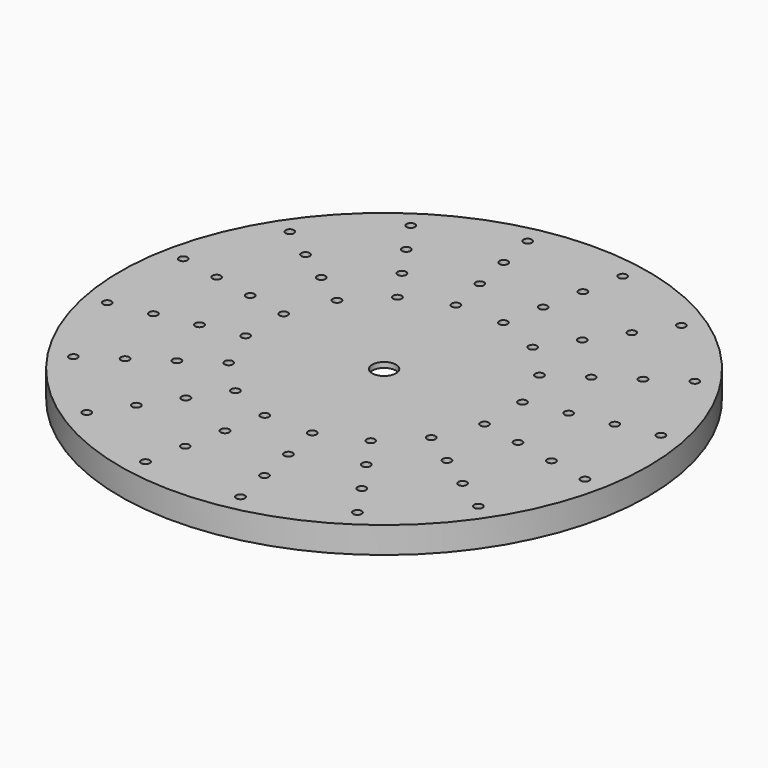
from build123d import *

# Parameters (mm, degrees)
SKETCH085_R     = 100
SKETCH085_R_2   = 1.6
PAD029_DEPTH    = 10
SKETCH086_R     = 32.5
POCKET051_DEPTH = 8
SKETCH087_R     = 4.5
POCKET052_DEPTH = 5
CHAMFER009_SIZE = 1


with BuildPart() as part:
    # Sketch085 → Pad029 (new body)
    with BuildSketch(Plane.XY):
        Circle(SKETCH085_R)
        with Locations((-18, 90.4921108583)):
            Circle(SKETCH085_R_2, mode=Mode.SUBTRACT)
        with Locations((18, 90.4921108583)):
            Circle(SKETCH085_R_2, mode=Mode.SUBTRACT)
        with Locations((51.2596631704, 76.7155072931)):
            Circle(SKETCH085_R_2, mode=Mode.SUBTRACT)
        with Locations((76.7155072931, 51.2596631704)):
            Circle(SKETCH085_R_2, mode=Mode.SUBTRACT)
        with Locations((90.4921108583, 18)):
            Circle(SKETCH085_R_2, mode=Mode.SUBTRACT)
        with Locations((90.4921108583, -18)):
            Circle(SKETCH085_R_2, mode=Mode.SUBTRACT)
        with Locations((76.7155072931, -51.2596631704)):
            Circle(SKETCH085_R_2, mode=Mode.SUBTRACT)
        with Locations((51.2596631704, -76.7155072931)):
            Circle(SKETCH085_R_2, mode=Mode.SUBTRACT)
        with Locations((18, -90.4921108583)):
            Circle(SKETCH085_R_2, mode=Mode.SUBTRACT)
        with Locations((-18, -90.4921108583)):
            Circle(SKETCH085_R_2, mode=Mode.SUBTRACT)
        with Locations((-51.2596631704, -76.7155072931)):
            Circle(SKETCH085_R_2, mode=Mode.SUBTRACT)
        with Locations((-76.7155072931, -51.2596631704)):
            Circle(SKETCH085_R_2, mode=Mode.SUBTRACT)
        with Locations((-90.4921108583, -18)):
            Circle(SKETCH085_R_2, mode=Mode.SUBTRACT)
        with Locations((-90.4921108583, 18)):
            Circle(SKETCH085_R_2, mode=Mode.SUBTRACT)
        with Locations((-76.7155072931, 51.2596631704)):
            Circle(SKETCH085_R_2, mode=Mode.SUBTRACT)
        with Locations((-51.2596631704, 76.7155072931)):
            Circle(SKETCH085_R_2, mode=Mode.SUBTRACT)
        with Locations((-75.4100923819, 15)):
            Circle(SKETCH085_R_2, mode=Mode.SUBTRACT)
        with Locations((-75.4100923819, -15)):
            Circle(SKETCH085_R_2, mode=Mode.SUBTRACT)
        with Locations((-63.9295894109, -42.7163859753)):
            Circle(SKETCH085_R_2, mode=Mode.SUBTRACT)
        with Locations((-42.7163859753, -63.9295894109)):
            Circle(SKETCH085_R_2, mode=Mode.SUBTRACT)
        with Locations((-15, -75.4100923819)):
            Circle(SKETCH085_R_2, mode=Mode.SUBTRACT)
        with Locations((15, -75.4100923819)):
            Circle(SKETCH085_R_2, mode=Mode.SUBTRACT)
        with Locations((42.7163859753, -63.9295894109)):
            Circle(SKETCH085_R_2, mode=Mode.SUBTRACT)
        with Locations((63.9295894109, -42.7163859753)):
            Circle(SKETCH085_R_2, mode=Mode.SUBTRACT)
        with Locations((75.4100923819, -15)):
            Circle(SKETCH085_R_2, mode=Mode.SUBTRACT)
        with Locations((75.4100923819, 15)):
            Circle(SKETCH085_R_2, mode=Mode.SUBTRACT)
        with Locations((63.9295894109, 42.7163859753)):
            Circle(SKETCH085_R_2, mode=Mode.SUBTRACT)
        with Locations((42.7163859753, 63.9295894109)):
            Circle(SKETCH085_R_2, mode=Mode.SUBTRACT)
        with Locations((15, 75.4100923819)):
            Circle(SKETCH085_R_2, mode=Mode.SUBTRACT)
        with Locations((-15, 75.4100923819)):
            Circle(SKETCH085_R_2, mode=Mode.SUBTRACT)
        with Locations((-42.7163859753, 63.9295894109)):
            Circle(SKETCH085_R_2, mode=Mode.SUBTRACT)
        with Locations((-63.9295894109, 42.7163859753)):
            Circle(SKETCH085_R_2, mode=Mode.SUBTRACT)
        with Locations((-34.1731089215, 51.1436717401)):
            Circle(SKETCH085_R_2, mode=Mode.SUBTRACT)
        with Locations((-12.0000000496, 60.3280741548)):
            Circle(SKETCH085_R_2, mode=Mode.SUBTRACT)
        with Locations((12.0000000496, 60.3280741548)):
            Circle(SKETCH085_R_2, mode=Mode.SUBTRACT)
        with Locations((34.1731089215, 51.1436717401)):
            Circle(SKETCH085_R_2, mode=Mode.SUBTRACT)
        with Locations((51.1436717401, 34.1731089215)):
            Circle(SKETCH085_R_2, mode=Mode.SUBTRACT)
        with Locations((60.3280741548, 12.0000000496)):
            Circle(SKETCH085_R_2, mode=Mode.SUBTRACT)
        with Locations((60.3280741548, -12.0000000496)):
            Circle(SKETCH085_R_2, mode=Mode.SUBTRACT)
        with Locations((51.1436717401, -34.1731089215)):
            Circle(SKETCH085_R_2, mode=Mode.SUBTRACT)
        with Locations((34.1731089215, -51.1436717401)):
            Circle(SKETCH085_R_2, mode=Mode.SUBTRACT)
        with Locations((12.0000000496, -60.3280741548)):
            Circle(SKETCH085_R_2, mode=Mode.SUBTRACT)
        with Locations((-12.0000000496, -60.3280741548)):
            Circle(SKETCH085_R_2, mode=Mode.SUBTRACT)
        with Locations((-34.1731089215, -51.1436717401)):
            Circle(SKETCH085_R_2, mode=Mode.SUBTRACT)
        with Locations((-51.1436717401, -34.1731089215)):
            Circle(SKETCH085_R_2, mode=Mode.SUBTRACT)
        with Locations((-60.3280741548, -12.0000000496)):
            Circle(SKETCH085_R_2, mode=Mode.SUBTRACT)
        with Locations((-60.3280741548, 12.0000000496)):
            Circle(SKETCH085_R_2, mode=Mode.SUBTRACT)
        with Locations((-51.1436717401, 34.1731089215)):
            Circle(SKETCH085_R_2, mode=Mode.SUBTRACT)
        with Locations((-25.6298315852, 38.3577536466)):
            Circle(SKETCH085_R_2, mode=Mode.SUBTRACT)
        with Locations((-9, 45.2460554291)):
            Circle(SKETCH085_R_2, mode=Mode.SUBTRACT)
        with Locations((9, 45.2460554291)):
            Circle(SKETCH085_R_2, mode=Mode.SUBTRACT)
        with Locations((25.6298315852, 38.3577536466)):
            Circle(SKETCH085_R_2, mode=Mode.SUBTRACT)
        with Locations((38.3577536466, 25.6298315852)):
            Circle(SKETCH085_R_2, mode=Mode.SUBTRACT)
        with Locations((45.2460554291, 9)):
            Circle(SKETCH085_R_2, mode=Mode.SUBTRACT)
        with Locations((45.2460554291, -9)):
            Circle(SKETCH085_R_2, mode=Mode.SUBTRACT)
        with Locations((38.3577536466, -25.6298315852)):
            Circle(SKETCH085_R_2, mode=Mode.SUBTRACT)
        with Locations((25.6298315852, -38.3577536466)):
            Circle(SKETCH085_R_2, mode=Mode.SUBTRACT)
        with Locations((9, -45.2460554291)):
            Circle(SKETCH085_R_2, mode=Mode.SUBTRACT)
        with Locations((-9, -45.2460554291)):
            Circle(SKETCH085_R_2, mode=Mode.SUBTRACT)
        with Locations((-25.6298315852, -38.3577536466)):
            Circle(SKETCH085_R_2, mode=Mode.SUBTRACT)
        with Locations((-38.3577536466, -25.6298315852)):
            Circle(SKETCH085_R_2, mode=Mode.SUBTRACT)
        with Locations((-45.2460554291, -9)):
            Circle(SKETCH085_R_2, mode=Mode.SUBTRACT)
        with Locations((-45.2460554291, 9)):
            Circle(SKETCH085_R_2, mode=Mode.SUBTRACT)
        with Locations((-38.3577536466, 25.6298315852)):
            Circle(SKETCH085_R_2, mode=Mode.SUBTRACT)
    extrude(amount=PAD029_DEPTH)

    # Sketch086 (on Face66 of Pad029) → Pocket051 (cut)
    with BuildSketch(Plane(origin=(0, 0, 0), x_dir=(1, 0, 0), z_dir=(0, 0, -1))):
        Circle(SKETCH086_R)
    extrude(amount=-POCKET051_DEPTH, mode=Mode.SUBTRACT)

    # Sketch087 (on Face3 of Pocket051) → Pocket052 (cut)
    with BuildSketch(Plane.XY.offset(10)):
        Circle(SKETCH087_R)
    extrude(amount=-POCKET052_DEPTH, mode=Mode.SUBTRACT)

    # Chamfer009
    chamfer009_edges = [part.edges().sort_by_distance(p)[0] for p in [
        (-32.5, 0, 0),
    ]]
    chamfer(chamfer009_edges, length=CHAMFER009_SIZE)


solid = part.part
